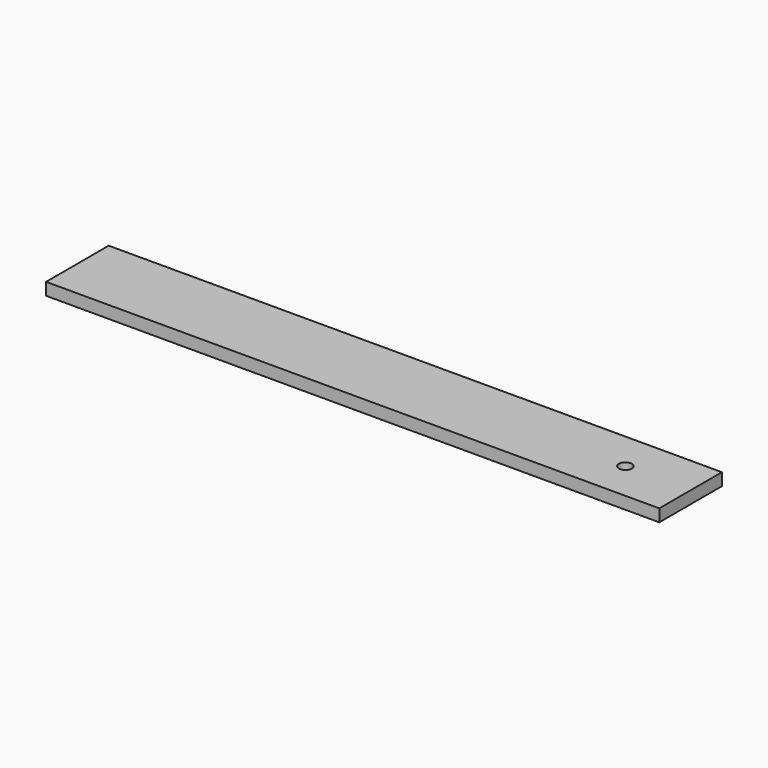
from build123d import *

# Parameters (mm, degrees)
F0_W     = 774.7
F0_H     = 76.2
F1_DEPTH = 5.9944
F2_R     = 6.35
F3_DEPTH = 11.9888
F4_R     = 6.35
F5_DEPTH = 11.9888
F6_W     = 177.8
F6_H     = 76.2
F7_DEPTH = 11.9888


with BuildPart() as f1:
    # F0 (on Top) → F1 (new body, symmetric)
    with BuildSketch(Plane.XY):
        Rectangle(F0_W, F0_H)
    extrude(amount=F1_DEPTH, both=True)

    # F2 (on face) → F3 (cut, through all)
    with BuildSketch(Plane(origin=(0, 0, -5.9944), x_dir=(1, 0, 0), z_dir=(0, 0, -1))):
        with Locations((-316.70625, 0)):
            Circle(F2_R)
        with Locations((323.85, 0)):
            Circle(F2_R)
    extrude(amount=-F3_DEPTH, mode=Mode.SUBTRACT)

    # F4 (on face) → F5 (cut, through all)
    with BuildSketch(Plane.XY.offset(5.9944)):
        with Locations((-349.25, 0)):
            Circle(F4_R)
        with Locations((-234.95, 0)):
            Circle(F4_R)
    extrude(amount=-F5_DEPTH, mode=Mode.SUBTRACT)

    # F6 (on face) → F7 (cut, through all)
    with BuildSketch(Plane.XY.offset(5.9944)):
        with Locations((-298.45, 0)):
            Rectangle(F6_W, F6_H)
    extrude(amount=-F7_DEPTH, mode=Mode.SUBTRACT)


solid = f1.part
